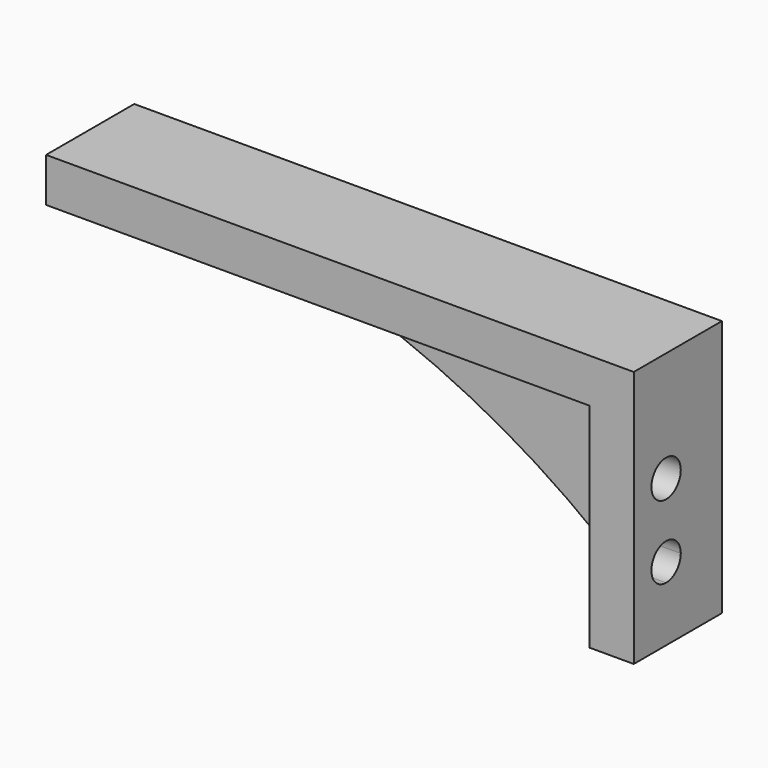
from build123d import *

# Parameters (mm, degrees)
F0_W          = 80
F0_H          = 35
F1_DEPTH      = 15
F3_START      = 4
F2_W          = 80
F2_H          = 40
F3_DEPTH      = 21
F5_DEPTH      = 25
F5_DEPTH_BACK = 25
F6_R          = 2.5
F7_DEPTH      = 25
F7_DEPTH_BACK = 25


with BuildPart() as f1:
    # F0 (on Front) → F1 (new body)
    with BuildSketch(Plane.XZ):
        with Locations((-40, 17.5)):
            Rectangle(F0_W, F0_H)
    extrude(amount=F1_DEPTH)

    # F2 (on Front) → F3 (cut)
    with BuildSketch(Plane.XZ.offset(F3_START)):
        with Locations((-46, 9)):
            Rectangle(F2_W, F2_H)
    extrude(amount=F3_DEPTH, mode=Mode.SUBTRACT)

    # F4 (on Front) → F5 (cut, two sides)
    with BuildSketch(Plane.XZ) as f5_sk:
        with BuildLine():
            Line((-6.1243288219, -12.5113828104), (-6.1243288219, 0))
            ThreePointArc((-6.1243288219, 0), (-40.2652870135, 21.5150124091), (-79.961232841, 28.7767387927))
            Line((-79.961232841, 28.7767387927), (-95.1284343701, 28.6287205464))
            Line((-95.1284343701, 28.6287205464), (-94.7269439607, -12.5113828104))
            Line((-94.7269439607, -12.5113828104), (-6.1243288219, -12.5113828104))
        make_face()
    extrude(amount=F5_DEPTH, mode=Mode.SUBTRACT)
    extrude(f5_sk.sketch, amount=-F5_DEPTH_BACK, mode=Mode.SUBTRACT)

    # F6 (on Right) → F7 (cut, two sides)
    with BuildSketch(Plane.YZ) as f7_sk:
        with Locations((-9.5, 20)):
            Circle(F6_R)
        with BuildLine():
            ThreePointArc((-9.5, 7.5), (-7.732233047, 8.232233047), (-7, 10))
            ThreePointArc((-7, 10), (-11.267766953, 11.767766953), (-9.5, 7.5))
        make_face()
    extrude(amount=F7_DEPTH, mode=Mode.SUBTRACT)
    extrude(f7_sk.sketch, amount=-F7_DEPTH_BACK, mode=Mode.SUBTRACT)


solid = f1.part
